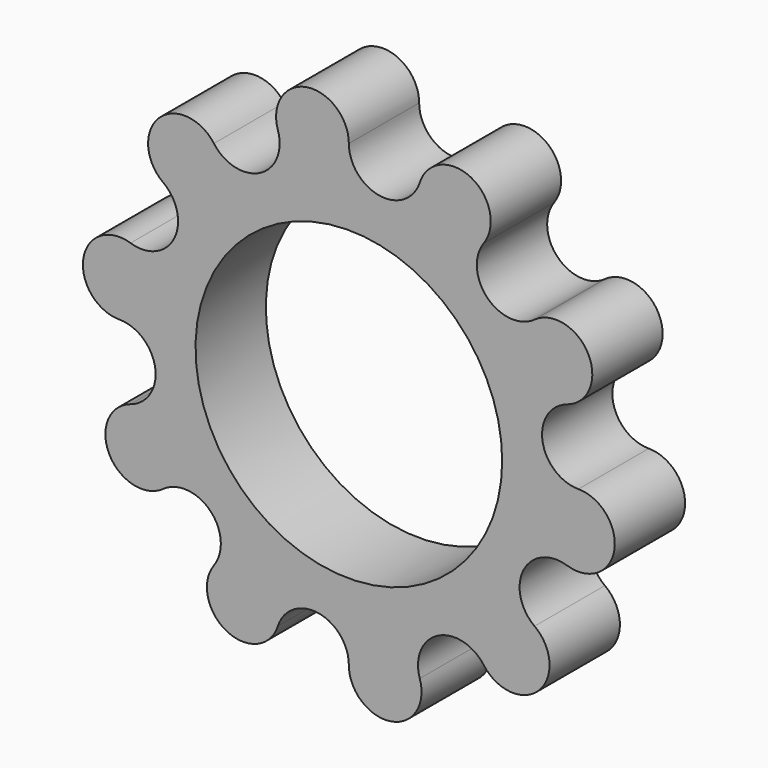
from build123d import *

# Parameters (mm, degrees)
F1_DEPTH = 12.7


with BuildPart() as f1:
    # F0 (on Front) → F1 (new body, symmetric)
    with BuildSketch(Plane.XZ):
        with BuildLine():
            ThreePointArc((0, 66.3336294239), (-12.1497488583, 76.710495257), (-20.4982187905, 63.0870305131))
            ThreePointArc((-20.4982187905, 63.0870305131), (-25.7205011158, 50.4793256968), (-38.9899291064, 53.6650335025))
            ThreePointArc((-38.9899291064, 53.6650335025), (-54.9186511119, 54.9186511119), (-53.6650335025, 38.9899291064))
            ThreePointArc((-53.6650335025, 38.9899291064), (-50.4793256968, 25.7205011158), (-63.0870305131, 20.4982187905))
            ThreePointArc((-63.0870305131, 20.4982187905), (-76.710495257, 12.1497488583), (-66.3336294239, 0))
            ThreePointArc((-66.3336294239, 0), (-55.9567635908, -8.8626806837), (-63.0870305131, -20.4982187905))
            ThreePointArc((-63.0870305131, -20.4982187905), (-69.2015375078, -35.2599445044), (-53.6650335025, -38.9899291064))
            ThreePointArc((-53.6650335025, -38.9899291064), (-40.0606196935, -40.0606196935), (-38.9899291064, -53.6650335025))
            ThreePointArc((-38.9899291064, -53.6650335025), (-35.2599445044, -69.2015375078), (-20.4982187905, -63.0870305131))
            ThreePointArc((-20.4982187905, -63.0870305131), (-8.8626806837, -55.9567635908), (0, -66.3336294239))
            ThreePointArc((0, -66.3336294239), (12.1497488583, -76.710495257), (20.4982187905, -63.0870305131))
            ThreePointArc((20.4982187905, -63.0870305131), (25.7205011158, -50.4793256968), (38.9899291064, -53.6650335025))
            ThreePointArc((38.9899291064, -53.6650335025), (54.9186511119, -54.9186511119), (53.6650335025, -38.9899291064))
            ThreePointArc((53.6650335025, -38.9899291064), (50.4793256968, -25.7205011158), (63.0870305131, -20.4982187905))
            ThreePointArc((63.0870305131, -20.4982187905), (76.710495257, -12.1497488583), (66.3336294239, 0))
            ThreePointArc((66.3336294239, 0), (55.9567635908, 8.8626806837), (63.0870305131, 20.4982187905))
            ThreePointArc((63.0870305131, 20.4982187905), (69.2015375078, 35.2599445044), (53.6650335025, 38.9899291064))
            ThreePointArc((53.6650335025, 38.9899291064), (40.0606196935, 40.0606196935), (38.9899291064, 53.6650335025))
            ThreePointArc((38.9899291064, 53.6650335025), (35.2599445044, 69.2015375078), (20.4982187905, 63.0870305131))
            ThreePointArc((20.4982187905, 63.0870305131), (8.8626806837, 55.9567635908), (0, 66.3336294239))
        make_face()
        with BuildLine():
            ThreePointArc((-5.6300746322, 43.9434670001), (6.7024252272, 43.79273374), (18.5154802819, 40.2480188615))
            ThreePointArc((18.5154802819, 40.2480188615), (37.3028895195, 23.9002189498), (44.3026639419, 0))
            ThreePointArc((44.3026639419, 0), (-29.2685729747, -33.2577309565), (-5.6300746322, 43.9434670001))
        make_face(mode=Mode.SUBTRACT)
    extrude(amount=F1_DEPTH, both=True)


solid = f1.part
